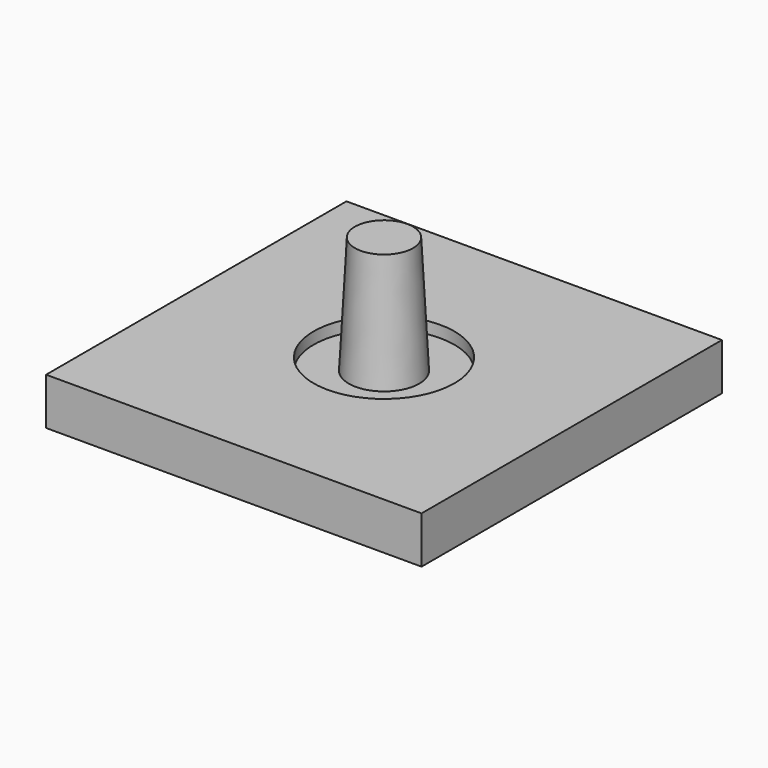
from build123d import *

# Parameters (mm, degrees)
F0_W     = 160
F0_H     = 160
F1_DEPTH = 20
F2_R     = 30
F3_DEPTH = 5
F4_R     = 15
F5_DEPTH = 50
F5_TAPER = 3


with BuildPart() as f1:
    # F0 (on Top) → F1 (new body)
    with BuildSketch(Plane.XY):
        with Locations((80, 80)):
            Rectangle(F0_W, F0_H)
    extrude(amount=F1_DEPTH)

    # F2 (on face) → F3 (cut)
    with BuildSketch(Plane.XY.offset(20)):
        with Locations((80, 80)):
            Circle(F2_R)
    extrude(amount=-F3_DEPTH, mode=Mode.SUBTRACT)


with BuildPart() as f5:
    # F4 (on face) → F5 (new body)
    with BuildSketch(Plane.XY.offset(15)):
        with Locations((80, 80)):
            Circle(F4_R)
    extrude(amount=F5_DEPTH, taper=F5_TAPER)


solid = Compound([f1.part, f5.part])
